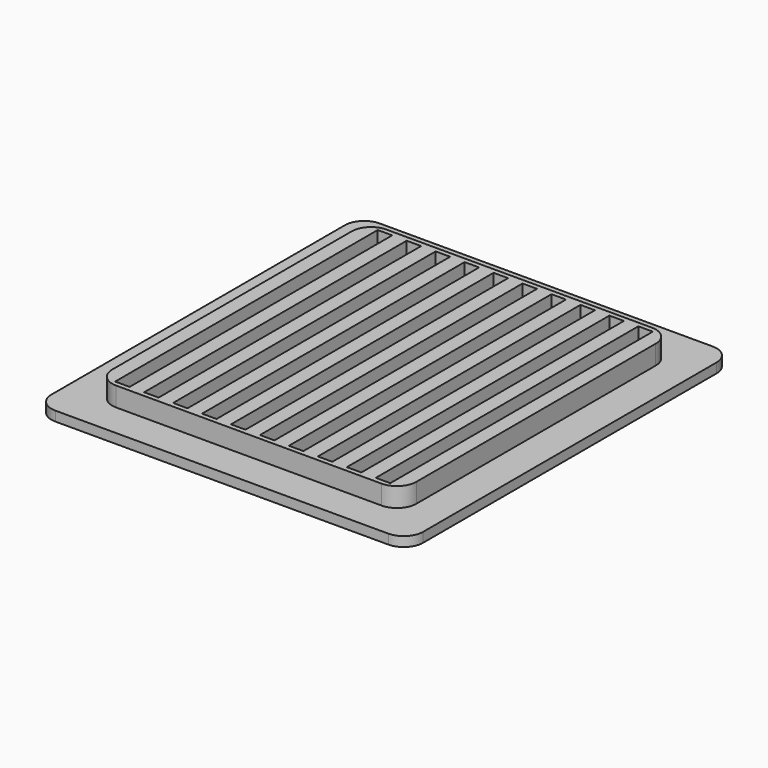
from build123d import *

# Parameters (mm, degrees)
F0_W     = 77
F0_H     = 84
F1_DEPTH = 2
F2_W     = 63
F2_H     = 70
F3_DEPTH = 4
F4_W     = 3
F4_H     = 68
F5_DEPTH = 6.001
F6_R     = 4


with BuildPart() as f1:
    # F0 (on Top) → F1 (new body)
    with BuildSketch(Plane.XY):
        Rectangle(F0_W, F0_H)
    extrude(amount=F1_DEPTH)

    # F2 (on face) → F3 (join)
    with BuildSketch(Plane.XY.offset(2)):
        Rectangle(F2_W, F2_H)
    extrude(amount=F3_DEPTH)

    # F4 (on face) → F5 (cut, through all)
    with BuildSketch(Plane.XY.offset(6)):
        with Locations((3, 0)):
            Rectangle(F4_W, F4_H)
        with Locations((9, 0)):
            Rectangle(F4_W, F4_H)
        with Locations((15, 0)):
            Rectangle(F4_W, F4_H)
        with Locations((21, 0)):
            Rectangle(F4_W, F4_H)
        with Locations((27, 0)):
            Rectangle(F4_W, F4_H)
        with Locations((-3, 0)):
            Rectangle(F4_W, F4_H)
        with Locations((-9, 0)):
            Rectangle(F4_W, F4_H)
        with Locations((-15, 0)):
            Rectangle(F4_W, F4_H)
        with Locations((-21, 0)):
            Rectangle(F4_W, F4_H)
        with Locations((-27, 0)):
            Rectangle(F4_W, F4_H)
    extrude(amount=-F5_DEPTH, mode=Mode.SUBTRACT)

    # F6
    f6_edges = [f1.edges().sort_by_distance(p)[0] for p in [
        (-38.5, -42, 1),
        (-31.5, -35, 4),
        (31.5, -35, 4),
        (38.5, -42, 1),
        (-31.5, 35, 4),
        (-38.5, 42, 1),
        (31.5, 35, 4),
        (38.5, 42, 1),
    ]]
    fillet(f6_edges, radius=F6_R)


solid = f1.part
